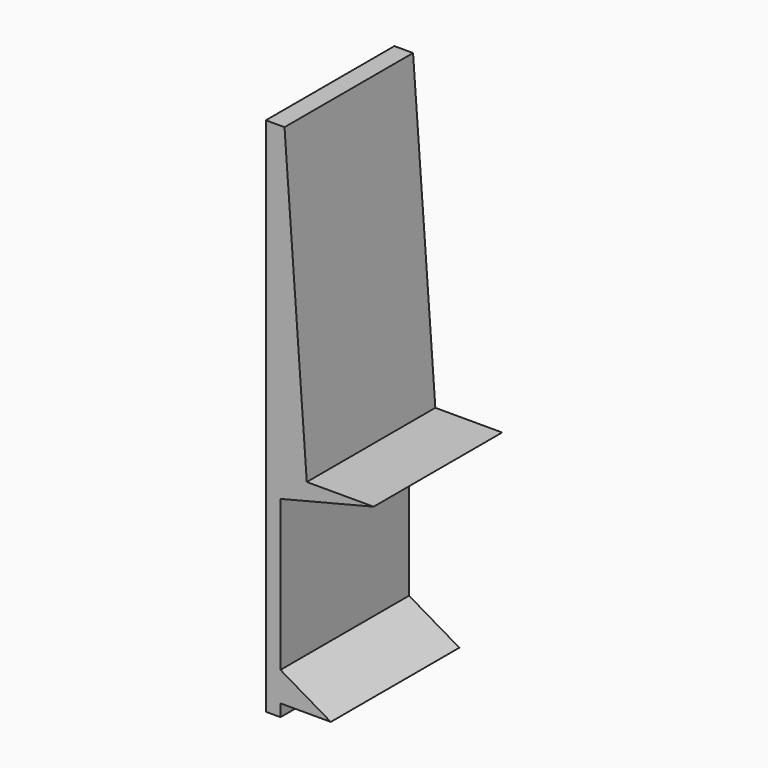
from build123d import *

# Parameters (mm, degrees)
F1_DEPTH = 39.5


with BuildPart() as f1:
    # F0 (on Front) → F1 (new body)
    with BuildSketch(Plane.XZ):
        Polygon((0, 75), (0, 0), (3.6, 0), (10.06858, 0), (4.592586, 75), align=None)
        Polygon((3.6, 0), (0, 0), (0, -53), (3.6, -53), (3.6, -50), (3.6, -42.764902), (3.6, -5.754051), align=None)
        Polygon((10.06858, 0), (3.6, 0), (3.6, -5.754051), (26.496561, 0), align=None)
        Polygon((15.96995, -50), (3.6, -42.764902), (3.6, -50), align=None)
    extrude(amount=F1_DEPTH)


solid = f1.part
